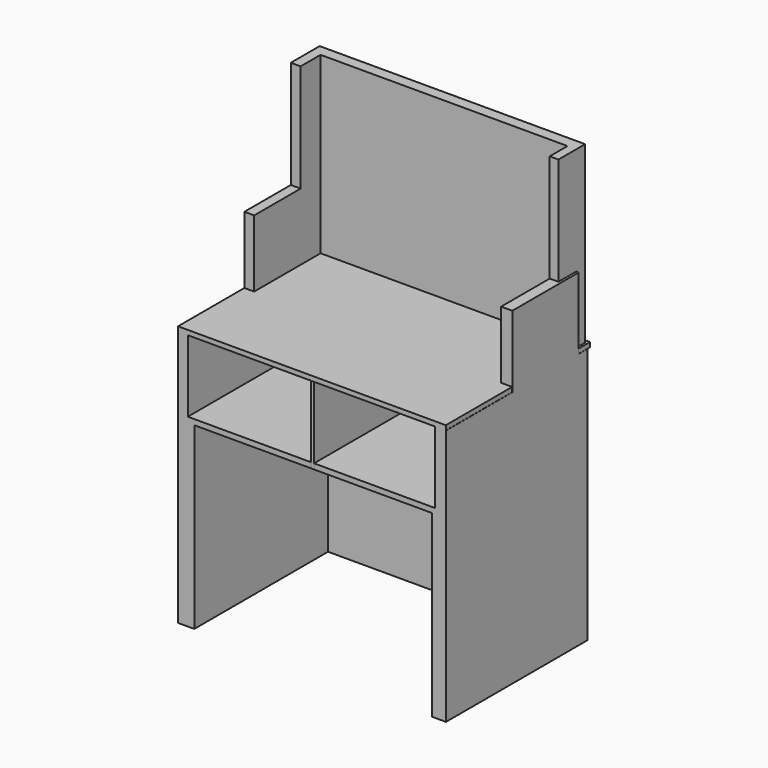
from build123d import *

# Parameters (mm, degrees)
F0_W      = 189.7254064679
F0_H      = 125.3468897194
F1_DEPTH  = 3.81
F2_W      = 6.9400146604
F2_H      = 125.3468897194
F3_DEPTH  = 50.8
F4_W      = 7.941737771
F4_H      = 125.3468897194
F5_DEPTH  = 50.8
F6_W      = 181.0236349702
F6_H      = 7.8539922833
F7_DEPTH  = 177.8
F8_W      = 6.9400146604
F8_H      = 66.6004410014
F9_DEPTH  = 50.8
F10_W     = 6.9400146604
F10_H     = 25.5400016904
F11_DEPTH = 76.2
F12_W     = 7.941737771
F12_H     = 58.746448718
F13_DEPTH = 50.8
F14_W     = 6.1799809337
F14_H     = 15.7597959042
F15_DEPTH = 76.2
F16_W     = 189.6112561226
F16_H     = 127.5956835598
F17_DEPTH = 3.302
F18_W     = 1.9466541708
F18_H     = 54.61
F19_DEPTH = 117.602
F20_W     = 11.5141570568
F20_H     = 125.3468897194
F21_DEPTH = 127
F22_W     = 10.0032910705
F22_H     = 125.3468897194
F23_DEPTH = 127
F24_W     = 178.803190589
F24_H     = 6.9889426231
F25_DEPTH = 127


with BuildPart() as f1:
    # F0 (on Top) → F1 (new body)
    with BuildSketch(Plane.XY):
        with Locations((-30.9122316539, 52.4606974795)):
            Rectangle(F0_W, F0_H)
    extrude(amount=F1_DEPTH)

    # F2 (on face) → F3 (join)
    with BuildSketch(Plane.XY.offset(3.81)):
        with Locations((-122.3049275577, 52.4606974795)):
            Rectangle(F2_W, F2_H)
    extrude(amount=F3_DEPTH)

    # F4 (on face) → F5 (join)
    with BuildSketch(Plane.XY.offset(3.81)):
        with Locations((59.9796026945, 52.4606974795)):
            Rectangle(F4_W, F4_H)
    extrude(amount=F5_DEPTH)

    # F6 (on face) → F7 (join)
    with BuildSketch(Plane.XY.offset(3.81)):
        with Locations((-28.3231027424, 111.2071461976)):
            Rectangle(F6_W, F6_H)
    extrude(amount=F7_DEPTH)

    # F8 (on face) → F9 (join)
    with BuildSketch(Plane.XY.offset(54.61)):
        with Locations((-122.3049275577, 81.8339218386)):
            Rectangle(F8_W, F8_H)
    extrude(amount=F9_DEPTH)

    # F10 (on face) → F11 (join)
    with BuildSketch(Plane.XY.offset(105.41)):
        with Locations((-122.3049275577, 102.364141494)):
            Rectangle(F10_W, F10_H)
    extrude(amount=F11_DEPTH)

    # F12 (on face) → F13 (join)
    with BuildSketch(Plane.XY.offset(54.61)):
        with Locations((59.9796026945, 77.9069256969)):
            Rectangle(F12_W, F12_H)
    extrude(amount=F13_DEPTH)

    # F14 (on face) → F15 (join)
    with BuildSketch(Plane.XY.offset(105.41)):
        with Locations((59.0987242758, 99.4002521038)):
            Rectangle(F14_W, F14_H)
    extrude(amount=F15_DEPTH)

    # F16 (on face) → F17 (join)
    with BuildSketch(Plane.XY.offset(54.61)):
        with Locations((-30.9693068266, 53.5850943998)):
            Rectangle(F16_W, F16_H)
    extrude(amount=F17_DEPTH)

    # F18 (on face) → F19 (join)
    with BuildSketch(Plane.XZ.offset(-107.2801500559)):
        with Locations((-30.4397661239, 27.305)):
            Rectangle(F18_W, F18_H)
    extrude(amount=F19_DEPTH)

    # F20 (on face) → F21 (join)
    with BuildSketch(Plane(origin=(0, 0, 0), x_dir=(1, 0, 0), z_dir=(0, 0, -1))):
        with Locations((-120.0178563595, -52.4606974795)):
            Rectangle(F20_W, F20_H)
    extrude(amount=F21_DEPTH)

    # F22 (on face) → F23 (join)
    with BuildSketch(Plane(origin=(0, 0, 0), x_dir=(1, 0, 0), z_dir=(0, 0, -1))):
        with Locations((58.9488260448, -52.4606974795)):
            Rectangle(F22_W, F22_H)
    extrude(amount=F23_DEPTH)

    # F24 (on face) → F25 (join)
    with BuildSketch(Plane(origin=(0, 0, 0), x_dir=(1, 0, 0), z_dir=(0, 0, -1))):
        with Locations((-35.4544147849, -111.6396710277)):
            Rectangle(F24_W, F24_H)
    extrude(amount=F25_DEPTH)


solid = f1.part
